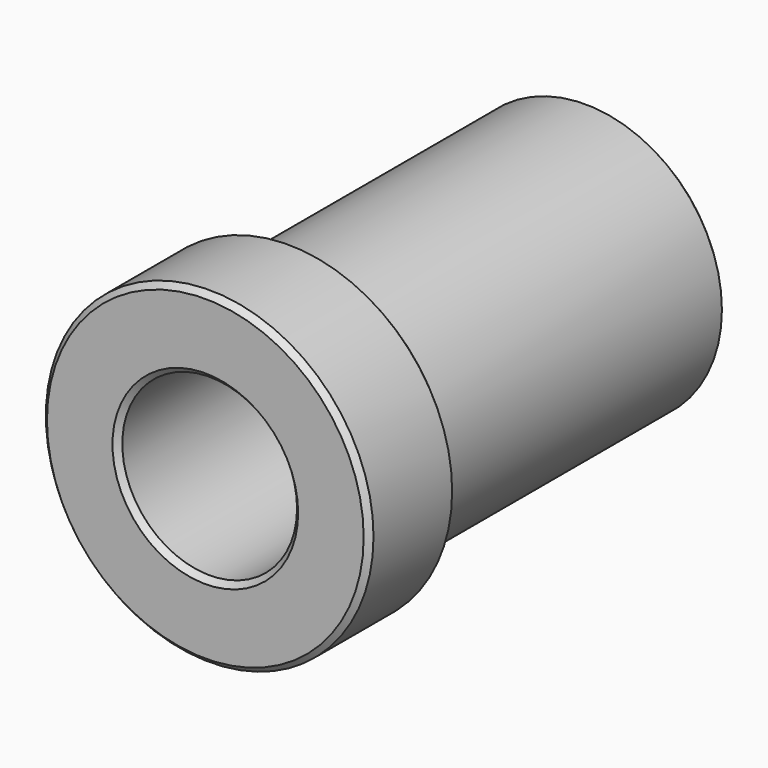
from build123d import *

# Parameters (mm, degrees)
F0_R     = 12.5
F0_R_2   = 8
F1_DEPTH = 44
F2_R     = 15
F2_R_2   = 12.5
F3_DEPTH = 10
F4_SIZE  = 0.5


with BuildPart() as f1:
    # F0 (on Front) → F1 (new body)
    with BuildSketch(Plane.XZ):
        Circle(F0_R)
        Circle(F0_R_2, mode=Mode.SUBTRACT)
    extrude(amount=-F1_DEPTH)

    # F2 (on Front) → F3 (join)
    with BuildSketch(Plane.XZ):
        Circle(F2_R)
        Circle(F2_R_2, mode=Mode.SUBTRACT)
    extrude(amount=-F3_DEPTH)

    # F4
    f4_edges = [f1.edges().sort_by_distance(p)[0] for p in [
        (-8, 0, 0),
        (-15, 0, 0),
        (-15, 10, 0),
        (-12.5, 44, 0),
        (-8, 44, 0),
    ]]
    chamfer(f4_edges, length=F4_SIZE)


solid = f1.part
